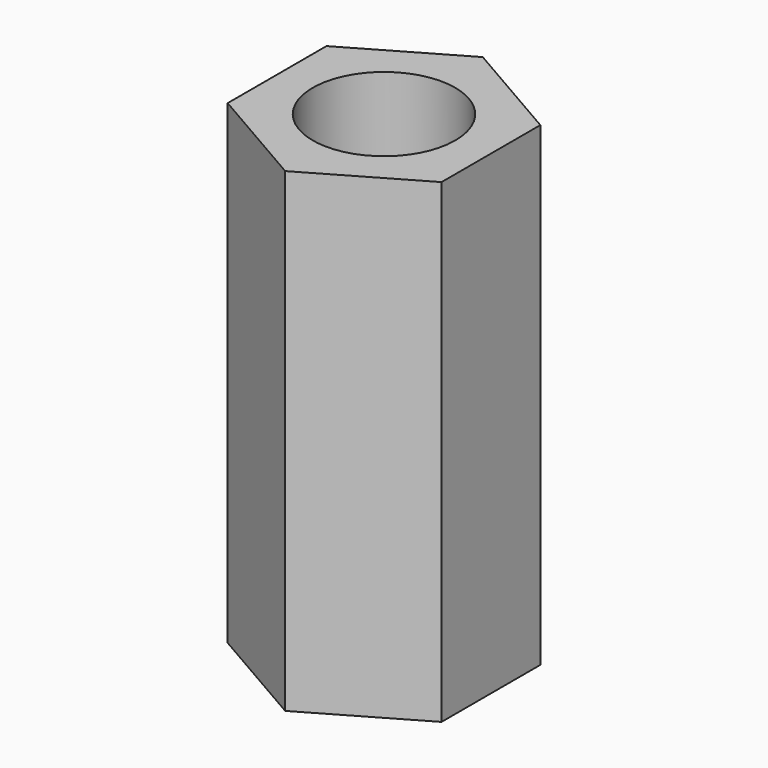
from build123d import *

# Parameters (mm, degrees)
F1_DEPTH = 20
F2_R     = 3
F3_DEPTH = 20


with BuildPart() as f1:
    # F0 (on Top) → F1 (new body)
    with BuildSketch(Plane.XY):
        Polygon((4.5, 2.598076), (0, 5.196152), (-4.5, 2.598076), (-4.5, -2.598076), (0, -5.196152), (4.5, -2.598076), align=None)
    extrude(amount=F1_DEPTH)

    # F2 (on face) → F3 (cut)
    with BuildSketch(Plane.XY.offset(20)):
        Circle(F2_R)
    extrude(amount=-F3_DEPTH, mode=Mode.SUBTRACT)


solid = f1.part
